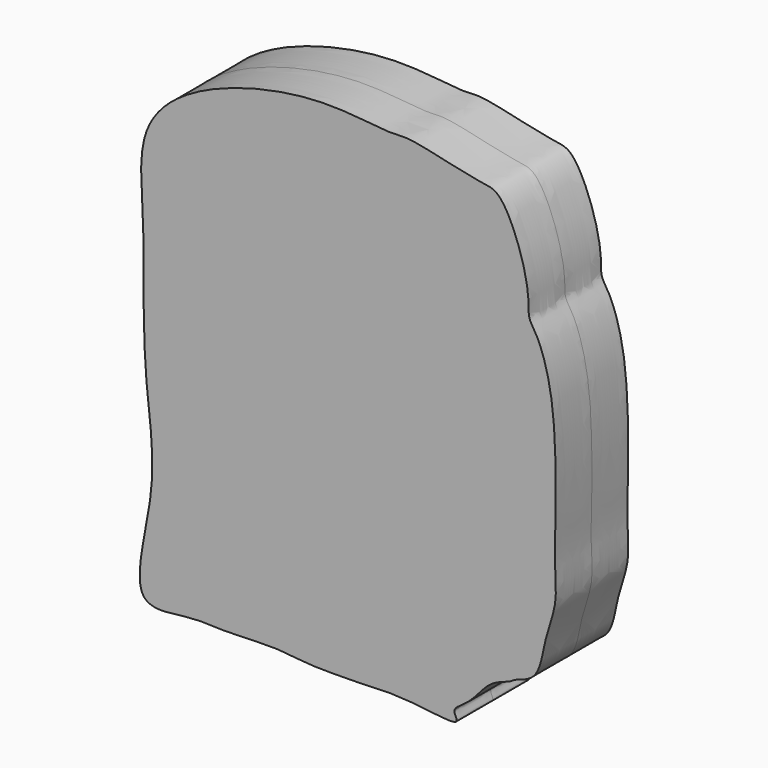
from build123d import *

# Parameters (mm, degrees)
F1_DEPTH = 12.7


with BuildPart() as f1:
    # F0 (on Front) → F1 (new body, symmetric)
    with BuildSketch(Plane.XZ):
        with BuildLine():
            add(Edge.make_bspline(
                [(0, -76.2685239315), (-4.8222286186, -76.0824444071), (-9.3499206904, -74.8698329889), (-25.6385340367, -76.1035675102), (-34.1288824758, -74.9118002923), (-53.5482265049, -79.3902513952), (-42.9788417039, -46.5250213523), (-47.6376758302, -22.6860144517), (-47.8191512158, 4.3942994306), (-47.7204943458, 20.4941448488), (-49.9105015359, 42.240330939), (-31.9260654147, 57.9303902861), (0.6673565955, 65.5559182221), (21.3279902133, 61.8266121246), (26.6236243729, 63.3046427089), (45.6330875929, 58.1127911083), (52.1903521722, 58.4293731061), (58.1736729352, 45.6817271324), (60.5179406314, 34.458865129), (59.9669190996, 29.2087282105), (62.8613072331, 25.8350213914), (68.5445992192, 10.3642137994), (67.6193370282, -23.2303193084), (67.4893763937, -29.7338420571), (68.3819656129, -39.364438273), (64.5435089689, -47.8274684486), (63.4254128951, -59.7180003486), (56.2320410927, -61.0262978081), (55.1142432913, -62.4298105526), (48.8174936625, -63.7876648859), (44.122893761, -71.3789916302), (38.1412696675, -73.924211062), (41.9779263976, -78.3116769365), (29.9843426447, -76.2514220037), (22.082342814, -75.9797610695), (21.6817132236, -75.9595778163), (6.9485643947, -76.5366542215), (0, -76.2685239315)],
                knots=[0, 0, 0, 0, 0.0270716097, 0.0592406622, 0.0858874875, 0.1154589566, 0.1582363359, 0.2021566625, 0.2448985089, 0.2792035332, 0.316377673, 0.3553759628, 0.4045786628, 0.4414794076, 0.4616225113, 0.4980216605, 0.5190711212, 0.549047986, 0.5782298422, 0.596263954, 0.6122075546, 0.6462964552, 0.6950241354, 0.7170898029, 0.7417599659, 0.7681025206, 0.7958486309, 0.8160543998, 0.8269306973, 0.8469209982, 0.8726091488, 0.8915542823, 0.9044884355, 0.9307575173, 0.954621501, 0.9609913097, 1, 1, 1, 1], degree=3))
        make_face()
    extrude(amount=F1_DEPTH, both=True)


solid = f1.part
